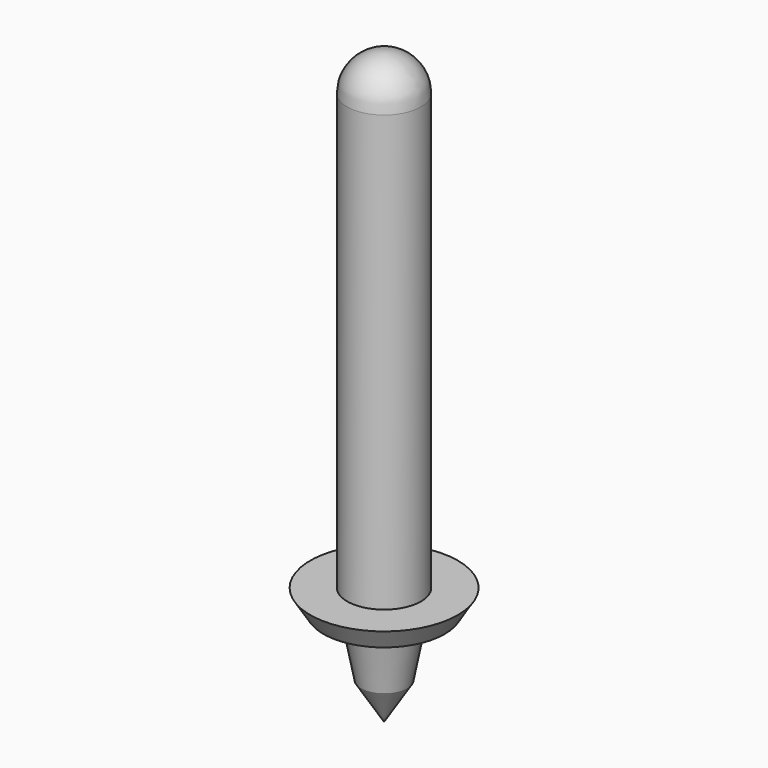
from build123d import *

# Parameters (mm, degrees)
F0_W = 2.5
F0_H = 29.5


with BuildPart() as f1:
    # F0 (on Front) → F1 (revolve)
    with BuildSketch(Plane.XZ):
        with Locations((1.25, 22.75)):
            Rectangle(F0_W, F0_H)
        with BuildLine():
            Line((0, 40), (0, 37.5))
            Line((0, 37.5), (2.5, 37.5))
            ThreePointArc((2.5, 37.5), (1.767767, 39.267767), (0, 40))
        make_face()
    revolve(axis=Axis((0, 0, 20), (0, 0, 1)))


with BuildPart() as f2:
    # F0 (on Front) → F2 (revolve)
    with BuildSketch(Plane.XZ):
        Polygon((0, 8), (0, 0), (1.558243, 2.493189), (2.222301, 5.929615), (4.113207, 6.581132), (5, 8), (2.5, 8), align=None)
    revolve(axis=Axis((0, 0, 20), (0, 0, 1)))


solid = Compound([f1.part, f2.part])
